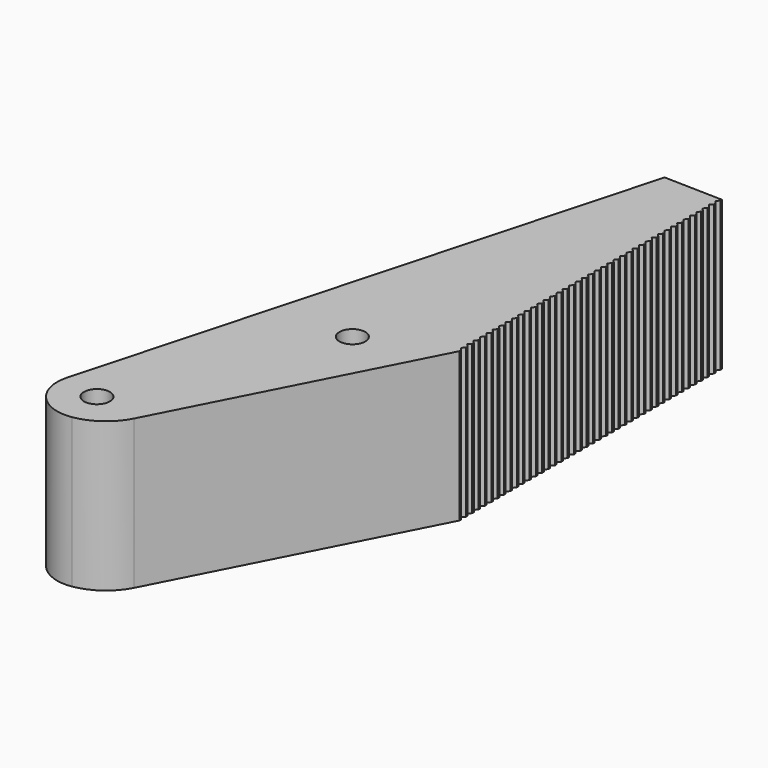
from build123d import *

# Parameters (mm, degrees)
F1_DEPTH = 19.05
F3_DEPTH = 19.05
F4_R     = 5.08
F5_R     = 1.651
F6_DEPTH = 19.05
F8_DEPTH = 19.051


with BuildPart() as f1:
    # F0 (on Top) → F1 (new body)
    with BuildSketch(Plane.XY):
        with BuildLine():
            Line((2.7951651794, -31.627423938), (19.05, 0))
            Line((19.05, 0), (19.05, 63.5))
            Line((19.05, 63.5), (17.4625, 63.5))
            Line((17.4625, 63.5), (0, 0))
            Line((0, 0), (-8.9422228719, -32.5171740795))
            ThreePointArc((-8.9422228719, -32.5171740795), (-2.8245693117, -35.3565183974), (2.7951651794, -31.627423938))
        make_face()
    extrude(amount=F1_DEPTH)

    # F2 (on face) → F3 (cut, through all)
    with BuildSketch(Plane.XY.offset(19.05)):
        Polygon((18.7139895835, 0.635), (19.05, 0.254), (19.05, 1.016), align=None)
        Polygon((19.05, 2.032), (18.7139895835, 1.651), (19.05, 1.27), align=None)
        Polygon((19.05, 3.048), (18.7139895835, 2.667), (19.05, 2.286), align=None)
        Polygon((19.05, 4.064), (18.7139895835, 3.683), (19.05, 3.302), align=None)
        Polygon((19.05, 5.08), (18.7139895835, 4.699), (19.05, 4.318), align=None)
        Polygon((19.05, 6.096), (18.7139895835, 5.715), (19.05, 5.334), align=None)
        Polygon((19.05, 7.112), (18.7139895835, 6.731), (19.05, 6.35), align=None)
        Polygon((19.05, 8.128), (18.7139895835, 7.747), (19.05, 7.366), align=None)
        Polygon((19.05, 9.144), (18.7139895835, 8.763), (19.05, 8.382), align=None)
        Polygon((19.05, 10.16), (18.7139895835, 9.779), (19.05, 9.398), align=None)
        Polygon((19.05, 11.176), (18.7139895835, 10.795), (19.05, 10.414), align=None)
        Polygon((19.05, 12.192), (18.7139895835, 11.811), (19.05, 11.43), align=None)
        Polygon((19.05, 13.208), (18.7139895835, 12.827), (19.05, 12.446), align=None)
        Polygon((19.05, 14.224), (18.7139895835, 13.843), (19.05, 13.462), align=None)
        Polygon((19.05, 15.24), (18.7139895835, 14.859), (19.05, 14.478), align=None)
        Polygon((19.05, 16.256), (18.7139895835, 15.875), (19.05, 15.494), align=None)
        Polygon((19.05, 17.272), (18.7139895835, 16.891), (19.05, 16.51), align=None)
        Polygon((19.05, 18.288), (18.7139895835, 17.907), (19.05, 17.526), align=None)
        Polygon((19.05, 19.304), (18.7139895835, 18.923), (19.05, 18.542), align=None)
        Polygon((19.05, 20.32), (18.7139895835, 19.939), (19.05, 19.558), align=None)
        Polygon((19.05, 21.336), (18.7139895835, 20.955), (19.05, 20.574), align=None)
        Polygon((19.05, 22.352), (18.7139895835, 21.971), (19.05, 21.59), align=None)
        Polygon((19.05, 23.368), (18.7139895835, 22.987), (19.05, 22.606), align=None)
        Polygon((19.05, 24.384), (18.7139895835, 24.003), (19.05, 23.622), align=None)
        Polygon((19.05, 25.4), (18.7139895835, 25.019), (19.05, 24.638), align=None)
        Polygon((19.05, 26.416), (18.7139895835, 26.035), (19.05, 25.654), align=None)
        Polygon((19.05, 27.432), (18.7139895835, 27.051), (19.05, 26.67), align=None)
        Polygon((19.05, 28.448), (18.7139895835, 28.067), (19.05, 27.686), align=None)
        Polygon((19.05, 29.464), (18.7139895835, 29.083), (19.05, 28.702), align=None)
        Polygon((19.05, 30.48), (18.7139895835, 30.099), (19.05, 29.718), align=None)
        Polygon((19.05, 31.496), (18.7139895835, 31.115), (19.05, 30.734), align=None)
        Polygon((19.05, 32.512), (18.7139895835, 32.131), (19.05, 31.75), align=None)
        Polygon((19.05, 33.528), (18.7139895835, 33.147), (19.05, 32.766), align=None)
        Polygon((19.05, 34.544), (18.7139895835, 34.163), (19.05, 33.782), align=None)
        Polygon((19.05, 35.56), (18.7139895835, 35.179), (19.05, 34.798), align=None)
        Polygon((19.05, 36.576), (18.7139895835, 36.195), (19.05, 35.814), align=None)
        Polygon((19.05, 37.592), (18.7139895835, 37.211), (19.05, 36.83), align=None)
        Polygon((19.05, 38.608), (18.7139895835, 38.227), (19.05, 37.846), align=None)
        Polygon((19.05, 39.624), (18.7139895835, 39.243), (19.05, 38.862), align=None)
        Polygon((19.05, 40.64), (18.7139895835, 40.259), (19.05, 39.878), align=None)
        Polygon((19.05, 41.656), (18.7139895835, 41.275), (19.05, 40.894), align=None)
        Polygon((19.05, 42.672), (18.7139895835, 42.291), (19.05, 41.91), align=None)
        Polygon((19.05, 43.688), (18.7139895835, 43.307), (19.05, 42.926), align=None)
        Polygon((19.05, 44.704), (18.7139895835, 44.323), (19.05, 43.942), align=None)
        Polygon((19.05, 45.72), (18.7139895835, 45.339), (19.05, 44.958), align=None)
        Polygon((19.05, 46.736), (18.7139895835, 46.355), (19.05, 45.974), align=None)
        Polygon((19.05, 47.752), (18.7139895835, 47.371), (19.05, 46.99), align=None)
        Polygon((19.05, 48.768), (18.7139895835, 48.387), (19.05, 48.006), align=None)
        Polygon((19.05, 49.784), (18.7139895835, 49.403), (19.05, 49.022), align=None)
        Polygon((19.05, 50.8), (18.7139895835, 50.419), (19.05, 50.038), align=None)
        Polygon((19.05, 51.816), (18.7139895835, 51.435), (19.05, 51.054), align=None)
        Polygon((19.05, 52.832), (18.7139895835, 52.451), (19.05, 52.07), align=None)
        Polygon((19.05, 53.848), (18.7139895835, 53.467), (19.05, 53.086), align=None)
        Polygon((19.05, 54.864), (18.7139895835, 54.483), (19.05, 54.102), align=None)
        Polygon((19.05, 55.88), (18.7139895835, 55.499), (19.05, 55.118), align=None)
        Polygon((19.05, 56.896), (18.7139895835, 56.515), (19.05, 56.134), align=None)
        Polygon((19.05, 57.912), (18.7139895835, 57.531), (19.05, 57.15), align=None)
        Polygon((19.05, 58.928), (18.7139895835, 58.547), (19.05, 58.166), align=None)
        Polygon((19.05, 59.944), (18.7139895835, 59.563), (19.05, 59.182), align=None)
        Polygon((19.05, 60.96), (18.7139895835, 60.579), (19.05, 60.198), align=None)
        Polygon((19.05, 61.976), (18.7139895835, 61.595), (19.05, 61.214), align=None)
        Polygon((19.05, 62.992), (18.7139895835, 62.611), (19.05, 62.23), align=None)
    extrude(amount=-F3_DEPTH, mode=Mode.SUBTRACT)

    # F4
    f4_edges = [f1.edges().sort_by_distance(p)[0] for p in [
        (-8.942223, -32.517174, 9.525),
    ]]
    fillet(f4_edges, radius=F4_R)

    # F5 (on face) → F6 (cut, through all)
    with BuildSketch(Plane.XY.offset(19.05)):
        with Locations((-3.0565118627, -30.2730867816)):
            Circle(F5_R)
        with Locations((8.7544881373, -4.2380867816)):
            Circle(F5_R)
    extrude(amount=-F6_DEPTH, mode=Mode.SUBTRACT)

    # F7 (on face) → F8 (cut, through all)
    with BuildSketch(Plane.XY.offset(19.05)):
        Polygon((19.05, 63.5), (17.4625, 63.5), (11.5776375, 42.1005), (19.05, 41.91), align=None)
    extrude(amount=-F8_DEPTH, mode=Mode.SUBTRACT)


solid = f1.part
